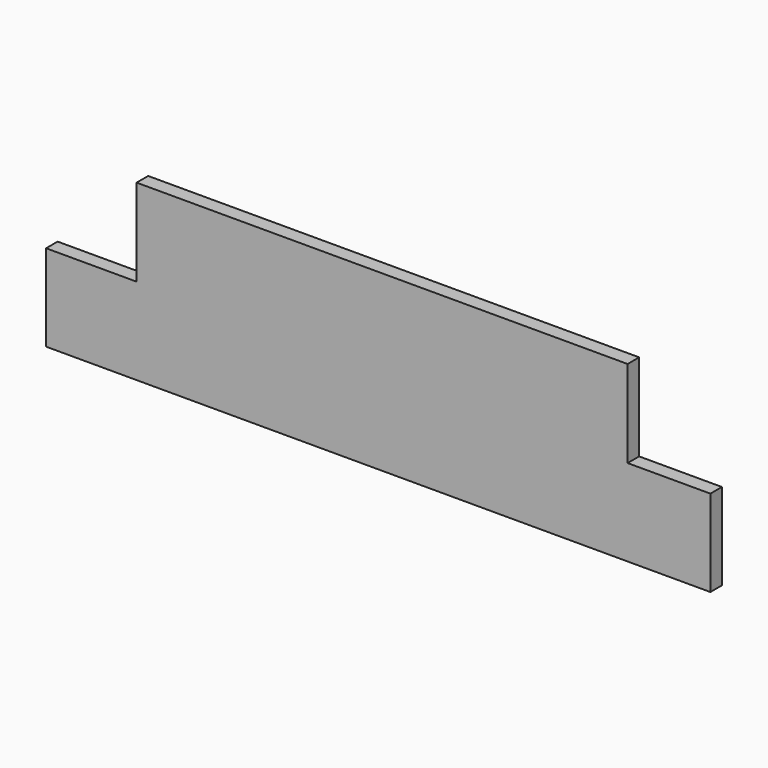
from build123d import *

# Parameters (mm, degrees)
F0_W     = 215.9
F0_H     = 76.2
F1_DEPTH = 6.35
F3_DEPTH = 6.35


with BuildPart() as f1:
    # F0 (on Front) → F1 (new body)
    with BuildSketch(Plane.XZ):
        with Locations((4.005505, 0.249261)):
            Rectangle(F0_W, F0_H)
    extrude(amount=F1_DEPTH)

    # F2 (on face) → F3 (join)
    with BuildSketch(Plane.XZ.offset(6.35)):
        Polygon((-103.944495, 0), (-143.752261, 0), (-143.752261, -38.1), (148.347739, -38.1), (148.347739, 0), (111.955505, 0), (111.955505, -37.850739), (-103.944495, -37.850739), align=None)
    extrude(amount=-F3_DEPTH)


solid = f1.part
